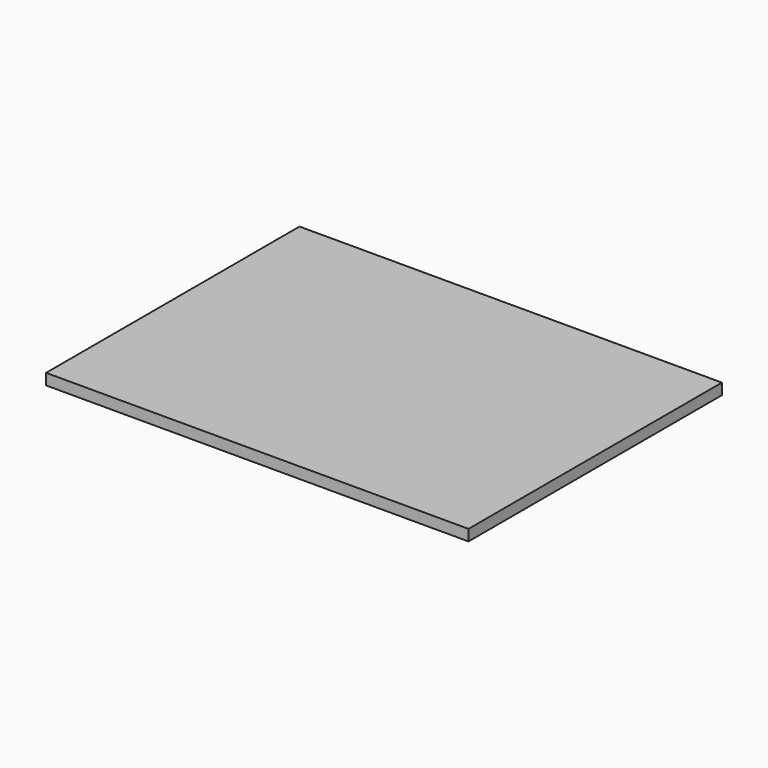
from build123d import *

# Parameters (mm, degrees)
F0_W     = 95.15
F0_H     = 71.35
F0_W_2   = 84.35
F0_H_2   = 60.55
F1_DEPTH = 2.5


with BuildPart() as f1:
    # F0 (on Top) → F1 (new body)
    with BuildSketch(Plane.XY):
        Rectangle(F0_W, F0_H)
        Rectangle(F0_W_2, F0_H_2, mode=Mode.SUBTRACT)
        Rectangle(F0_W_2, F0_H_2)
    extrude(amount=F1_DEPTH)


solid = f1.part
